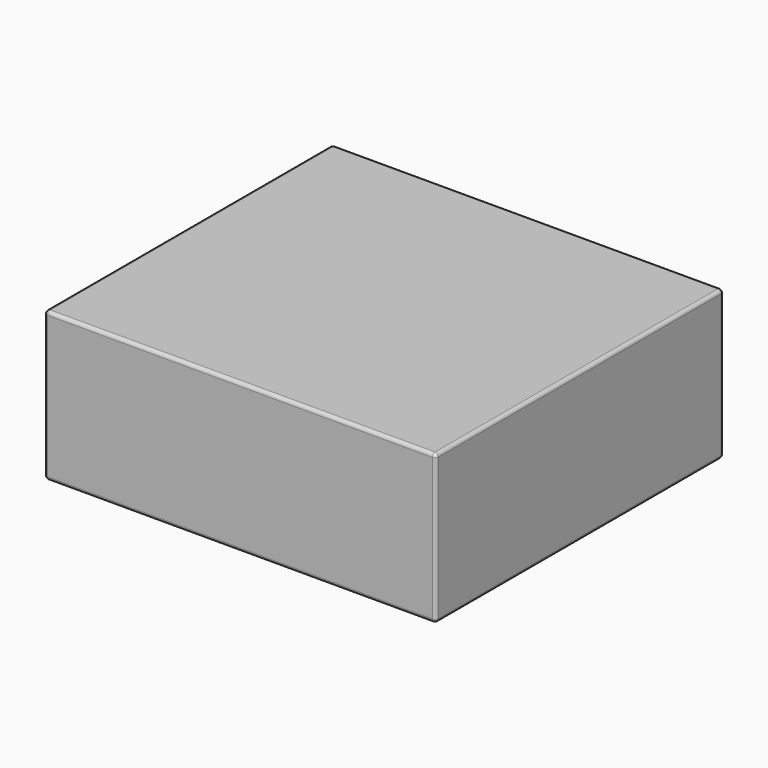
from build123d import *

# Parameters (mm, degrees)
SKETCH003_W   = 57.8
SKETCH003_H   = 53.16
PAD002_DEPTH  = 2
SKETCH004_W   = 57.8
SKETCH004_H   = 53.16
SKETCH004_W_2 = 53.8
SKETCH004_H_2 = 49.16
PAD003_DEPTH  = 20
FILLET_R      = 0.5


with BuildPart() as part:
    # Sketch003 (on Face23 of ShapeBinder001) → Pad002 (new body)
    with BuildSketch(Plane.XY.offset(10.4)):
        with Locations((171.25, -106.07)):
            Rectangle(SKETCH003_W, SKETCH003_H)
    extrude(amount=PAD002_DEPTH)

    # Sketch004 (on Face5 of Pad002) → Pad003 (join)
    with BuildSketch(Plane(origin=(0, 0, 10.4), x_dir=(1, 0, 0), z_dir=(0, 0, -1))):
        with Locations((171.25, 106.07)):
            Rectangle(SKETCH004_W, SKETCH004_H)
        with Locations((171.25, 106.07)):
            Rectangle(SKETCH004_W_2, SKETCH004_H_2, mode=Mode.SUBTRACT)
    extrude(amount=PAD003_DEPTH)

    # Fillet
    fillet_edges = [part.edges().sort_by_distance(p)[0] for p in [
        (171.25, -132.65, -9.6),
        (142.35, -106.07, -9.6),
        (171.25, -79.49, -9.6),
        (200.15, -106.07, -9.6),
        (171.25, -130.65, -9.6),
        (144.35, -106.07, -9.6),
        (171.25, -81.49, -9.6),
        (198.15, -106.07, -9.6),
        (198.15, -130.65, 0.4),
        (144.35, -130.65, 0.4),
        (171.25, -130.65, 10.4),
        (144.35, -81.49, 0.4),
        (144.35, -106.07, 10.4),
        (198.15, -81.49, 0.4),
        (171.25, -81.49, 10.4),
        (198.15, -106.07, 10.4),
        (200.15, -79.49, 1.4),
        (142.35, -79.49, 1.4),
        (171.25, -79.49, 12.4),
        (142.35, -106.07, 12.4),
        (171.25, -132.65, 12.4),
        (200.15, -106.07, 12.4),
        (200.15, -132.65, 1.4),
        (142.35, -132.65, 1.4),
    ]]
    fillet(fillet_edges, radius=FILLET_R)


solid = part.part
